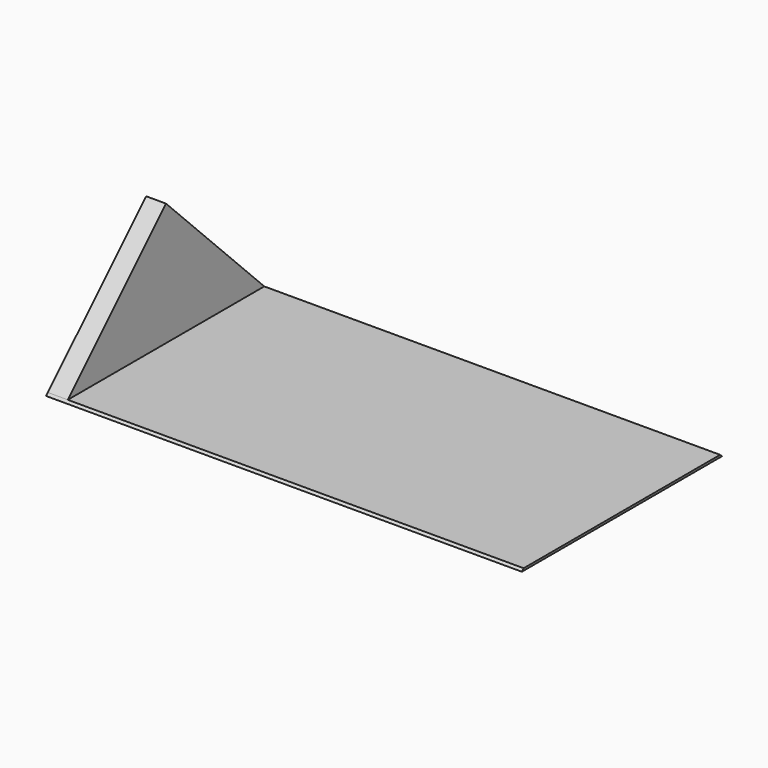
from build123d import *

# Parameters (mm, degrees)
F1_DEPTH = 10750
F2_DEPTH = 450
F3_DEPTH = 450


with BuildPart() as f1:
    # F0 (on Right) → F1 (new body)
    with BuildSketch(Plane.YZ):
        Polygon((50, 50), (0, 0), (5650, 0), (5600, 50), align=None)
    extrude(amount=F1_DEPTH)


with BuildPart() as f2:
    # F0 (on Right) → F2 (new body)
    with BuildSketch(Plane.YZ):
        Polygon((2825, 2825), (50, 50), (5600, 50), align=None)
        Polygon((1700, 950), (2825, 2075), (3950, 950), align=None, mode=Mode.SUBTRACT)
        Polygon((3950, 950), (2825, 2075), (1700, 950), align=None)
    extrude(amount=F2_DEPTH)


with BuildPart() as f3:
    # F0 (on Right) → F3 (new body)
    with BuildSketch(Plane.YZ):
        Polygon((2825, 2825), (50, 50), (5600, 50), align=None)
        Polygon((1700, 950), (2825, 2075), (3950, 950), align=None, mode=Mode.SUBTRACT)
        Polygon((3950, 950), (2825, 2075), (1700, 950), align=None)
    extrude(amount=F3_DEPTH)


solid = Compound([f1.part, f2.part, f3.part])
